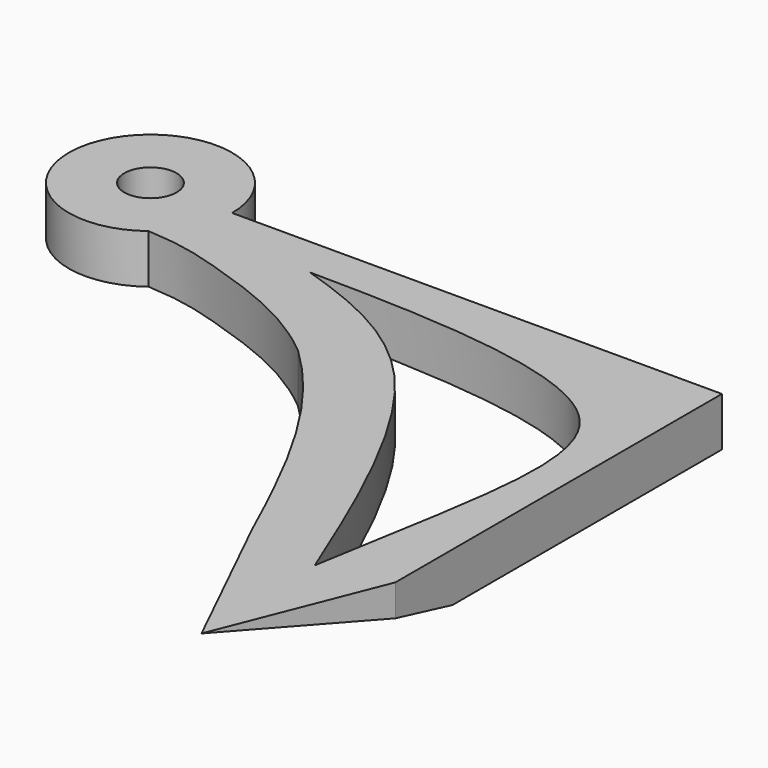
from build123d import *

# Parameters (mm, degrees)
F1_DEPTH = 3
F3_DEPTH = 10


with BuildPart() as f1:
    # F0 (on Top) → F1 (new body)
    with BuildSketch(Plane.XY):
        with BuildLine():
            Line((35, 0), (5, 0))
            ThreePointArc((5, 0), (4.9001321306, -0.994336514), (4.6045179588, -1.9489521203))
            add(Edge.make_bspline(
                [(4.6045179588, -1.9489521203), (8.982592697, -3.8894730603), (13.1060078098, -6.0785248195), (16.3553711027, -9.1512575746)],
                knots=[0.1286816833, 0.1286816833, 0.1286816833, 0.1286816833, 0.5010527079, 0.5010527079, 0.5010527079, 0.5010527079], degree=3))
            add(Edge.make_bspline(
                [(16.3553711027, -9.1512575746), (20.709257171, -13.2684728958), (23.4938837559, -18.9722357783), (26.1831879616, -24.9243713915)],
                knots=[0.5010527079, 0.5010527079, 0.5010527079, 0.5010527079, 1, 1, 1, 1], degree=3))
            Line((26.1831879616, -24.9243713915), (31.0640550593, -34.9243713915))
            Line((31.0640550593, -34.9243713915), (35, -25))
            Line((35, -25), (35, 0))
        make_face()
        with BuildLine():
            add(Edge.make_bspline(
                [(30.8882948011, -26.0320287198), (32.702434808, -14.9967605248), (35.9932875392, -3.0824051725), (19.1161632538, -2.5350854266), (11.7503972724, -2.4784943089)],
                knots=[0, 0, 0, 0, 0.5046054372, 1, 1, 1, 1], degree=3))
            add(Edge.make_bspline(
                [(30.8882948011, -26.0320287198), (29.1250709171, -21.7851968276), (23.3229644896, -6.5450667247), (14.8612016292, -3.5016305244), (11.7503972724, -2.4784943089)],
                knots=[0, 0, 0, 0, 0.5670490464, 1, 1, 1, 1], degree=3))
        make_face(mode=Mode.SUBTRACT)
        with BuildLine():
            ThreePointArc((1.4784949002, -0.6115985857), (-1.5693297678, 0.3117756883), (1.6, 0))
            Line((1.6, 0), (5, 0))
            ThreePointArc((5, 0), (-4.4865596179, 2.206985001), (3.0516868821, -3.9607079132))
            ThreePointArc((3.0516868821, -3.9607079132), (3.9580498334, -3.0551336331), (4.6045179588, -1.9489521203))
            add(Edge.make_bspline(
                [(1.4784949002, -0.6115985857), (2.5292276317, -1.0491346928), (3.5739284159, -1.4921575911), (4.6045179588, -1.9489521203)],
                knots=[0.0410263309, 0.0410263309, 0.0410263309, 0.0410263309, 0.1286816833, 0.1286816833, 0.1286816833, 0.1286816833], degree=3))
        make_face()
        with BuildLine():
            Line((5, 0), (1.6, 0))
            ThreePointArc((1.6, 0), (1.5693297678, -0.3117756883), (1.4784949002, -0.6115985857))
            add(Edge.make_bspline(
                [(1.4784949002, -0.6115985857), (2.5292276317, -1.0491346928), (3.5739284159, -1.4921575911), (4.6045179588, -1.9489521203)],
                knots=[0.0410263309, 0.0410263309, 0.0410263309, 0.0410263309, 0.1286816833, 0.1286816833, 0.1286816833, 0.1286816833], degree=3))
            ThreePointArc((4.6045179588, -1.9489521203), (4.9001321306, -0.994336514), (5, 0))
        make_face()
        with BuildLine():
            add(Edge.make_bspline(
                [(4.6045179588, -1.9489521203), (8.982592697, -3.8894730603), (13.1060078098, -6.0785248195), (16.3553711027, -9.1512575746)],
                knots=[0.1286816833, 0.1286816833, 0.1286816833, 0.1286816833, 0.5010527079, 0.5010527079, 0.5010527079, 0.5010527079], degree=3))
            ThreePointArc((4.6045179588, -1.9489521203), (3.9580498334, -3.0551336331), (3.0516868821, -3.9607079132))
            add(Edge.make_bspline(
                [(3.0516868821, -3.9607079132), (5.2943859853, -4.0702180668), (8.4050057827, -5.0356236502), (13.4853385389, -6.7557273433), (16.3553711027, -9.1512575746)],
                knots=[0, 0, 0, 0, 0.4387271971, 1, 1, 1, 1], degree=3))
        make_face()
    extrude(amount=F1_DEPTH)

    # F2 (on face) → F3 (cut)
    with BuildSketch(Plane(origin=(11.3209573139, 5.5256088068, 0), x_dir=(0.438628211, -0.8986686222, 0), z_dir=(-0.8986686222, -0.438628211, 0))):
        Polygon((45.0110076163, 0), (45.0110076163, 3), (33.8834353911, 0), align=None)
    extrude(amount=-F3_DEPTH, mode=Mode.SUBTRACT)


solid = f1.part
